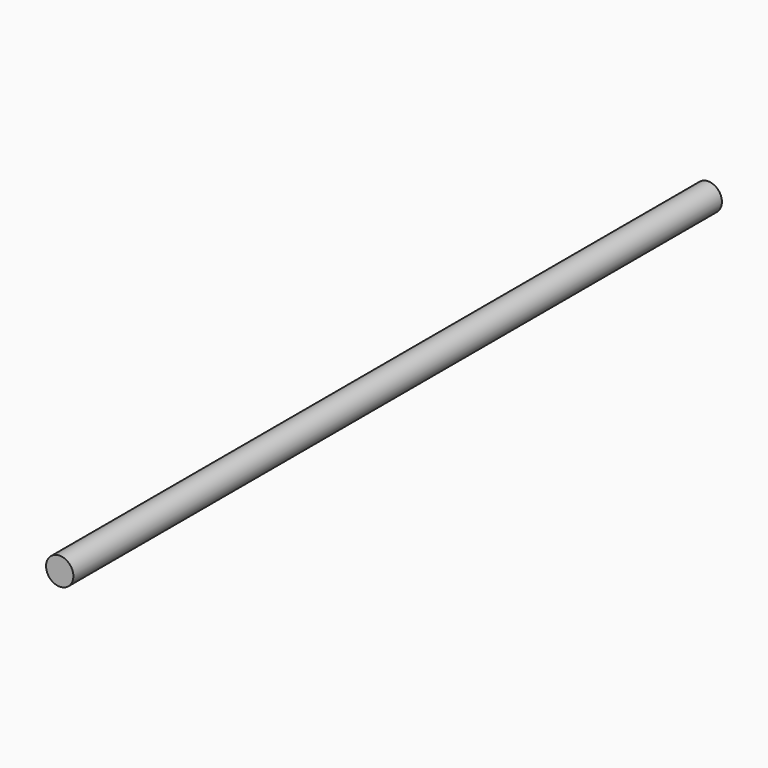
from build123d import *

# Parameters (mm, degrees)
F0_R     = 8
F1_DEPTH = 500
F2_R     = 8
F2_R_2   = 5
F3_DEPTH = 25


with BuildPart() as f1:
    # F0 (on Front) → F1 (new body)
    with BuildSketch(Plane.XZ):
        Circle(F0_R)
    extrude(amount=F1_DEPTH)

    # F2 (on face) → F3 (cut)
    with BuildSketch(Plane.XZ.offset(500)):
        Circle(F2_R)
        Circle(F2_R_2, mode=Mode.SUBTRACT)
        Circle(F2_R_2)
    extrude(amount=-F3_DEPTH, mode=Mode.SUBTRACT)


solid = f1.part
